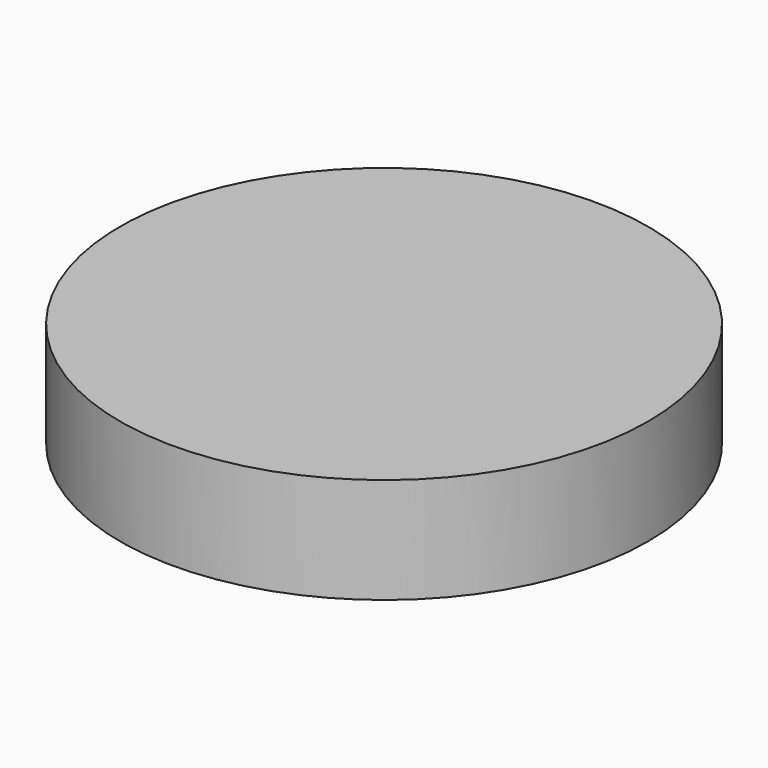
from build123d import *

# Parameters (mm, degrees)
F0_R     = 12.5
F1_DEPTH = 5
F2_R     = 6.5
F3_DEPTH = 2.54
F4_DEPTH = 3
F5_R     = 6.5
F6_DEPTH = 3


with BuildPart() as f1:
    # F0 (on Top) → F1 (new body)
    with BuildSketch(Plane.XY):
        Circle(F0_R)
    extrude(amount=F1_DEPTH)

    # F2 (on Top) → F3 (join)
    with BuildSketch(Plane.XY):
        Circle(F2_R)
    extrude(amount=F3_DEPTH)

    # F2 (on Top) → F4 (join)
    with BuildSketch(Plane.XY):
        Circle(F2_R)
    extrude(amount=F4_DEPTH)

    # F5 (on Top) → F6 (cut)
    with BuildSketch(Plane.XY):
        Circle(F5_R)
    extrude(amount=F6_DEPTH, mode=Mode.SUBTRACT)


solid = f1.part
